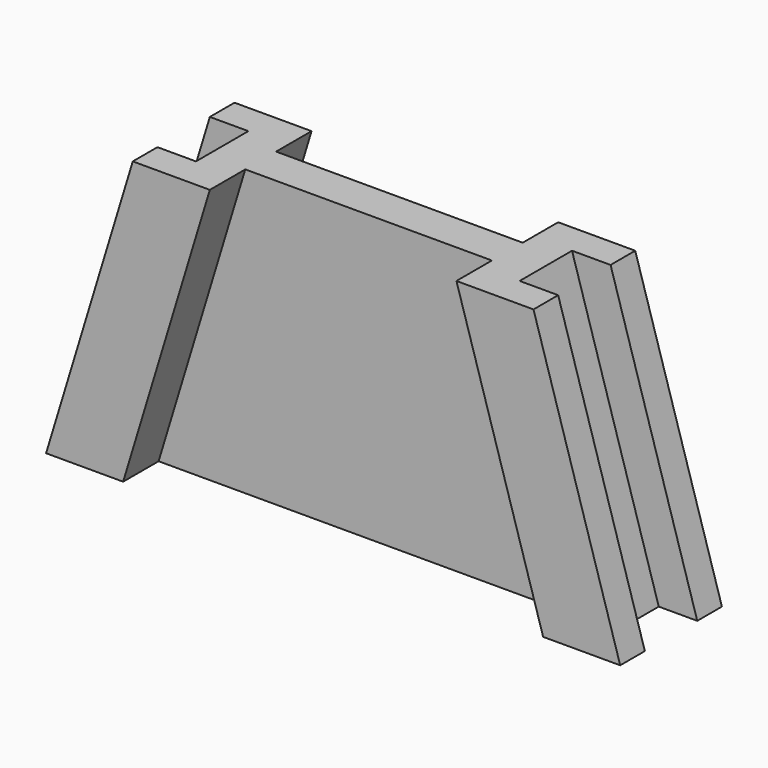
from build123d import *


with BuildPart() as part:
    # CopySketch002 → AdditiveLoft section 0
    with BuildSketch(Plane.XY.offset(14.8)):
        Polygon((-10.399994, -3.3), (-6.399994, -3.3), (-6.399994, -1), (6.399994, -1), (6.399994, -3.3), (10.399994, -3.3), (10.400006, -1.7), (8.400006, -1.7), (8.400006, 1.7), (10.400006, 1.7), (10.400006, 3.3), (6.400006, 3.3), (6.400006, 1), (-6.399994, 1), (-6.399994, 3.3), (-10.399994, 3.3), (-10.399994, 1.7), (-8.399994, 1.7), (-8.399994, -1.7), (-10.399994, -1.7), align=None)
    # Sketch001 (on Plane) → AdditiveLoft section 1
    with BuildSketch(Plane.XY):
        Polygon((-14.899994, -3.3), (-10.899994, -3.3), (-10.899994, -1), (10.899994, -1), (10.899994, -3.3), (14.899994, -3.3), (14.900006, -1.7), (12.900006, -1.7), (12.900006, 1.7), (14.900006, 1.7), (14.900006, 3.3), (10.900006, 3.3), (10.900006, 1), (-10.899994, 1), (-10.899994, 3.3), (-14.899994, 3.3), (-14.899994, 1.7), (-12.899994, 1.7), (-12.899994, -1.7), (-14.899994, -1.7), align=None)
    loft()


solid = part.part
